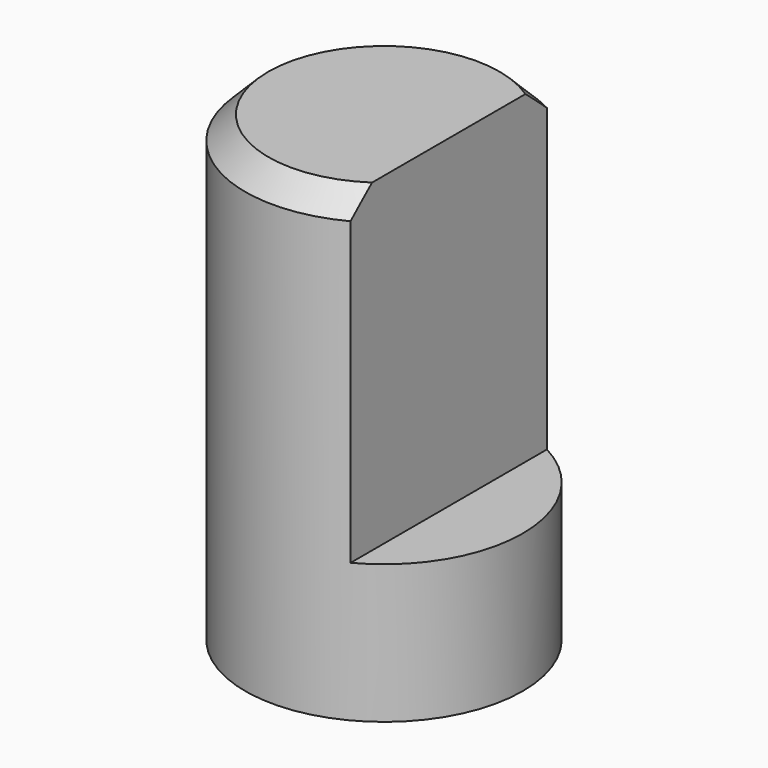
from build123d import *

# Parameters (mm, degrees)
BOX009_W          = 6
BOX009_H          = 6
BOX009_DEPTH      = 7
CYLINDER001_R     = 3
CYLINDER001_DEPTH = 10
CHAMFER002_SIZE   = 0.5


with BuildPart() as rotary_top_cutout:
    # Box009 → Box009 (new body)
    with BuildSketch(Plane(origin=(1.4, -3, 3), x_dir=(1, 0, 0), z_dir=(0, 0, 1))):
        with Locations((3, 3)):
            Rectangle(BOX009_W, BOX009_H)
    extrude(amount=BOX009_DEPTH)


with BuildPart() as chamfer002:
    # Cylinder001 → Cylinder001 (new body)
    with BuildSketch(Plane.XY):
        Circle(CYLINDER001_R)
    extrude(amount=CYLINDER001_DEPTH)

    # Cut017: cut ROTARY_top_cutout
    add(rotary_top_cutout.part, mode=Mode.SUBTRACT)

    # Chamfer002
    chamfer002_edges = [chamfer002.edges().sort_by_distance(p)[0] for p in [
        (-3, 0, 10),
    ]]
    chamfer(chamfer002_edges, length=CHAMFER002_SIZE)


solid = chamfer002.part
